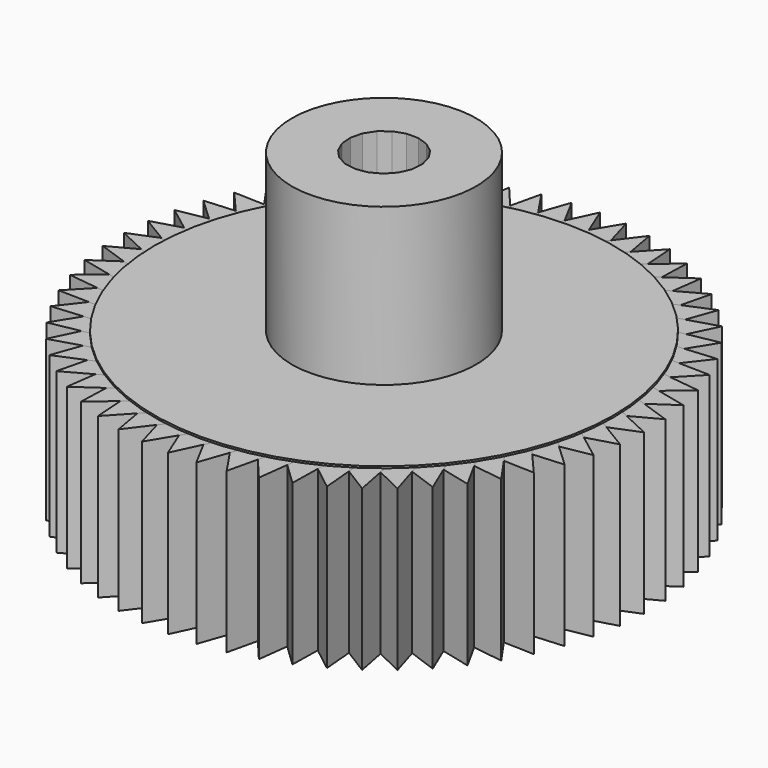
from build123d import *

# Parameters (mm, degrees)
F0_W      = 40.22482
F0_H      = 55.804856
F2_W      = 24.644787
F2_H      = 28.044066
F4_R      = 33.499398
F4_R_2    = 29.559684
F5_DEPTH  = 25
F7_DEPTH  = 60
F9_DEPTH  = 28
F10_COUNT = 60


with BuildPart() as f1:
    # F0 (on Front) → F1 (revolve)
    with BuildSketch(Plane.XZ):
        with Locations((-20.11241, 27.902428)):
            Rectangle(F0_W, F0_H)
    revolve(axis=Axis((0, 0, 27.902428), (0, 0, 1)))

    # F2 (on Front) → F3 (revolve, cut)
    with BuildSketch(Plane.XZ):
        with Locations((-28.468977, 42.349373)):
            Rectangle(F2_W, F2_H)
    revolve(axis=Axis((0, 0, 27.902428), (0, 0, -1)), mode=Mode.SUBTRACT)

    # F4 (on Top) → F5 (cut)
    with BuildSketch(Plane.XY):
        Circle(F4_R)
        Circle(F4_R_2, mode=Mode.SUBTRACT)
    extrude(amount=F5_DEPTH, mode=Mode.SUBTRACT)

    # F6 (on Top) → F7 (cut)
    with BuildSketch(Plane.XY):
        Polygon((1.039939, 6.232015), (-1.039939, 6.232015), (-3.007124, 5.556679), (-4.648441, 4.279191), (-5.786027, 2.537987), (-6.296607, 0.521752), (-6.124852, -1.551023), (-5.289374, -3.455721), (-3.880711, -4.985937), (-2.051512, -5.97585), (0, -6.318187), (2.051512, -5.97585), (3.880711, -4.985937), (5.289374, -3.455721), (6.124852, -1.551023), (6.296607, 0.521752), (5.786027, 2.537987), (4.648441, 4.279191), (3.007124, 5.556679), align=None)
    extrude(amount=F7_DEPTH, mode=Mode.SUBTRACT)


with BuildPart() as f9:
    # F8 (on Top) → F9 (new body)
    with BuildSketch(Plane.XY):
        Polygon((5.682018, 45.911353), (2.167117, 40.084016), (7.555099, 39.43653), align=None)
    extrude(amount=F9_DEPTH)


with BuildPart() as f10_1:
    # F10: instance of F9
    add(f9.part.rotate(Axis((0, 0, 55.804856), (0, 0, -1)), 1 * 360 / F10_COUNT))


with BuildPart() as f10_2:
    # F10: instance of F9
    add(f9.part.rotate(Axis((0, 0, 55.804856), (0, 0, -1)), 2 * 360 / F10_COUNT))


with BuildPart() as f10_3:
    # F10: instance of F9
    add(f9.part.rotate(Axis((0, 0, 55.804856), (0, 0, -1)), 3 * 360 / F10_COUNT))


with BuildPart() as f10_4:
    # F10: instance of F9
    add(f9.part.rotate(Axis((0, 0, 55.804856), (0, 0, -1)), 4 * 360 / F10_COUNT))


with BuildPart() as f10_5:
    # F10: instance of F9
    add(f9.part.rotate(Axis((0, 0, 55.804856), (0, 0, -1)), 5 * 360 / F10_COUNT))


with BuildPart() as f10_6:
    # F10: instance of F9
    add(f9.part.rotate(Axis((0, 0, 55.804856), (0, 0, -1)), 6 * 360 / F10_COUNT))


with BuildPart() as f10_7:
    # F10: instance of F9
    add(f9.part.rotate(Axis((0, 0, 55.804856), (0, 0, -1)), 7 * 360 / F10_COUNT))


with BuildPart() as f10_8:
    # F10: instance of F9
    add(f9.part.rotate(Axis((0, 0, 55.804856), (0, 0, -1)), 8 * 360 / F10_COUNT))


with BuildPart() as f10_9:
    # F10: instance of F9
    add(f9.part.rotate(Axis((0, 0, 55.804856), (0, 0, -1)), 9 * 360 / F10_COUNT))


with BuildPart() as f10_10:
    # F10: instance of F9
    add(f9.part.rotate(Axis((0, 0, 55.804856), (0, 0, -1)), 10 * 360 / F10_COUNT))


with BuildPart() as f10_11:
    # F10: instance of F9
    add(f9.part.rotate(Axis((0, 0, 55.804856), (0, 0, -1)), 11 * 360 / F10_COUNT))


with BuildPart() as f10_12:
    # F10: instance of F9
    add(f9.part.rotate(Axis((0, 0, 55.804856), (0, 0, -1)), 12 * 360 / F10_COUNT))


with BuildPart() as f10_13:
    # F10: instance of F9
    add(f9.part.rotate(Axis((0, 0, 55.804856), (0, 0, -1)), 13 * 360 / F10_COUNT))


with BuildPart() as f10_14:
    # F10: instance of F9
    add(f9.part.rotate(Axis((0, 0, 55.804856), (0, 0, -1)), 14 * 360 / F10_COUNT))


with BuildPart() as f10_15:
    # F10: instance of F9
    add(f9.part.rotate(Axis((0, 0, 55.804856), (0, 0, -1)), 15 * 360 / F10_COUNT))


with BuildPart() as f10_16:
    # F10: instance of F9
    add(f9.part.rotate(Axis((0, 0, 55.804856), (0, 0, -1)), 16 * 360 / F10_COUNT))


with BuildPart() as f10_17:
    # F10: instance of F9
    add(f9.part.rotate(Axis((0, 0, 55.804856), (0, 0, -1)), 17 * 360 / F10_COUNT))


with BuildPart() as f10_18:
    # F10: instance of F9
    add(f9.part.rotate(Axis((0, 0, 55.804856), (0, 0, -1)), 18 * 360 / F10_COUNT))


with BuildPart() as f10_19:
    # F10: instance of F9
    add(f9.part.rotate(Axis((0, 0, 55.804856), (0, 0, -1)), 19 * 360 / F10_COUNT))


with BuildPart() as f10_20:
    # F10: instance of F9
    add(f9.part.rotate(Axis((0, 0, 55.804856), (0, 0, -1)), 20 * 360 / F10_COUNT))


with BuildPart() as f10_21:
    # F10: instance of F9
    add(f9.part.rotate(Axis((0, 0, 55.804856), (0, 0, -1)), 21 * 360 / F10_COUNT))


with BuildPart() as f10_22:
    # F10: instance of F9
    add(f9.part.rotate(Axis((0, 0, 55.804856), (0, 0, -1)), 22 * 360 / F10_COUNT))


with BuildPart() as f10_23:
    # F10: instance of F9
    add(f9.part.rotate(Axis((0, 0, 55.804856), (0, 0, -1)), 23 * 360 / F10_COUNT))


with BuildPart() as f10_24:
    # F10: instance of F9
    add(f9.part.rotate(Axis((0, 0, 55.804856), (0, 0, -1)), 24 * 360 / F10_COUNT))


with BuildPart() as f10_25:
    # F10: instance of F9
    add(f9.part.rotate(Axis((0, 0, 55.804856), (0, 0, -1)), 25 * 360 / F10_COUNT))


with BuildPart() as f10_26:
    # F10: instance of F9
    add(f9.part.rotate(Axis((0, 0, 55.804856), (0, 0, -1)), 26 * 360 / F10_COUNT))


with BuildPart() as f10_27:
    # F10: instance of F9
    add(f9.part.rotate(Axis((0, 0, 55.804856), (0, 0, -1)), 27 * 360 / F10_COUNT))


with BuildPart() as f10_28:
    # F10: instance of F9
    add(f9.part.rotate(Axis((0, 0, 55.804856), (0, 0, -1)), 28 * 360 / F10_COUNT))


with BuildPart() as f10_29:
    # F10: instance of F9
    add(f9.part.rotate(Axis((0, 0, 55.804856), (0, 0, -1)), 29 * 360 / F10_COUNT))


with BuildPart() as f10_30:
    # F10: instance of F9
    add(f9.part.rotate(Axis((0, 0, 55.804856), (0, 0, -1)), 30 * 360 / F10_COUNT))


with BuildPart() as f10_31:
    # F10: instance of F9
    add(f9.part.rotate(Axis((0, 0, 55.804856), (0, 0, -1)), 31 * 360 / F10_COUNT))


with BuildPart() as f10_32:
    # F10: instance of F9
    add(f9.part.rotate(Axis((0, 0, 55.804856), (0, 0, -1)), 32 * 360 / F10_COUNT))


with BuildPart() as f10_33:
    # F10: instance of F9
    add(f9.part.rotate(Axis((0, 0, 55.804856), (0, 0, -1)), 33 * 360 / F10_COUNT))


with BuildPart() as f10_34:
    # F10: instance of F9
    add(f9.part.rotate(Axis((0, 0, 55.804856), (0, 0, -1)), 34 * 360 / F10_COUNT))


with BuildPart() as f10_35:
    # F10: instance of F9
    add(f9.part.rotate(Axis((0, 0, 55.804856), (0, 0, -1)), 35 * 360 / F10_COUNT))


with BuildPart() as f10_36:
    # F10: instance of F9
    add(f9.part.rotate(Axis((0, 0, 55.804856), (0, 0, -1)), 36 * 360 / F10_COUNT))


with BuildPart() as f10_37:
    # F10: instance of F9
    add(f9.part.rotate(Axis((0, 0, 55.804856), (0, 0, -1)), 37 * 360 / F10_COUNT))


with BuildPart() as f10_38:
    # F10: instance of F9
    add(f9.part.rotate(Axis((0, 0, 55.804856), (0, 0, -1)), 38 * 360 / F10_COUNT))


with BuildPart() as f10_39:
    # F10: instance of F9
    add(f9.part.rotate(Axis((0, 0, 55.804856), (0, 0, -1)), 39 * 360 / F10_COUNT))


with BuildPart() as f10_40:
    # F10: instance of F9
    add(f9.part.rotate(Axis((0, 0, 55.804856), (0, 0, -1)), 40 * 360 / F10_COUNT))


with BuildPart() as f10_41:
    # F10: instance of F9
    add(f9.part.rotate(Axis((0, 0, 55.804856), (0, 0, -1)), 41 * 360 / F10_COUNT))


with BuildPart() as f10_42:
    # F10: instance of F9
    add(f9.part.rotate(Axis((0, 0, 55.804856), (0, 0, -1)), 42 * 360 / F10_COUNT))


with BuildPart() as f10_43:
    # F10: instance of F9
    add(f9.part.rotate(Axis((0, 0, 55.804856), (0, 0, -1)), 43 * 360 / F10_COUNT))


with BuildPart() as f10_44:
    # F10: instance of F9
    add(f9.part.rotate(Axis((0, 0, 55.804856), (0, 0, -1)), 44 * 360 / F10_COUNT))


with BuildPart() as f10_45:
    # F10: instance of F9
    add(f9.part.rotate(Axis((0, 0, 55.804856), (0, 0, -1)), 45 * 360 / F10_COUNT))


with BuildPart() as f10_46:
    # F10: instance of F9
    add(f9.part.rotate(Axis((0, 0, 55.804856), (0, 0, -1)), 46 * 360 / F10_COUNT))


with BuildPart() as f10_47:
    # F10: instance of F9
    add(f9.part.rotate(Axis((0, 0, 55.804856), (0, 0, -1)), 47 * 360 / F10_COUNT))


with BuildPart() as f10_48:
    # F10: instance of F9
    add(f9.part.rotate(Axis((0, 0, 55.804856), (0, 0, -1)), 48 * 360 / F10_COUNT))


with BuildPart() as f10_49:
    # F10: instance of F9
    add(f9.part.rotate(Axis((0, 0, 55.804856), (0, 0, -1)), 49 * 360 / F10_COUNT))


with BuildPart() as f10_50:
    # F10: instance of F9
    add(f9.part.rotate(Axis((0, 0, 55.804856), (0, 0, -1)), 50 * 360 / F10_COUNT))


with BuildPart() as f10_51:
    # F10: instance of F9
    add(f9.part.rotate(Axis((0, 0, 55.804856), (0, 0, -1)), 51 * 360 / F10_COUNT))


with BuildPart() as f10_52:
    # F10: instance of F9
    add(f9.part.rotate(Axis((0, 0, 55.804856), (0, 0, -1)), 52 * 360 / F10_COUNT))


with BuildPart() as f10_53:
    # F10: instance of F9
    add(f9.part.rotate(Axis((0, 0, 55.804856), (0, 0, -1)), 53 * 360 / F10_COUNT))


with BuildPart() as f10_54:
    # F10: instance of F9
    add(f9.part.rotate(Axis((0, 0, 55.804856), (0, 0, -1)), 54 * 360 / F10_COUNT))


with BuildPart() as f10_55:
    # F10: instance of F9
    add(f9.part.rotate(Axis((0, 0, 55.804856), (0, 0, -1)), 55 * 360 / F10_COUNT))


with BuildPart() as f10_56:
    # F10: instance of F9
    add(f9.part.rotate(Axis((0, 0, 55.804856), (0, 0, -1)), 56 * 360 / F10_COUNT))


with BuildPart() as f10_57:
    # F10: instance of F9
    add(f9.part.rotate(Axis((0, 0, 55.804856), (0, 0, -1)), 57 * 360 / F10_COUNT))


with BuildPart() as f10_58:
    # F10: instance of F9
    add(f9.part.rotate(Axis((0, 0, 55.804856), (0, 0, -1)), 58 * 360 / F10_COUNT))


with BuildPart() as f10_59:
    # F10: instance of F9
    add(f9.part.rotate(Axis((0, 0, 55.804856), (0, 0, -1)), 59 * 360 / F10_COUNT))


solid = Compound([f1.part, f9.part, f10_1.part, f10_2.part, f10_3.part, f10_4.part, f10_5.part, f10_6.part, f10_7.part, f10_8.part, f10_9.part, f10_10.part, f10_11.part, f10_12.part, f10_13.part, f10_14.part, f10_15.part, f10_16.part, f10_17.part, f10_18.part, f10_19.part, f10_20.part, f10_21.part, f10_22.part, f10_23.part, f10_24.part, f10_25.part, f10_26.part, f10_27.part, f10_28.part, f10_29.part, f10_30.part, f10_31.part, f10_32.part, f10_33.part, f10_34.part, f10_35.part, f10_36.part, f10_37.part, f10_38.part, f10_39.part, f10_40.part, f10_41.part, f10_42.part, f10_43.part, f10_44.part, f10_45.part, f10_46.part, f10_47.part, f10_48.part, f10_49.part, f10_50.part, f10_51.part, f10_52.part, f10_53.part, f10_54.part, f10_55.part, f10_56.part, f10_57.part, f10_58.part, f10_59.part])
